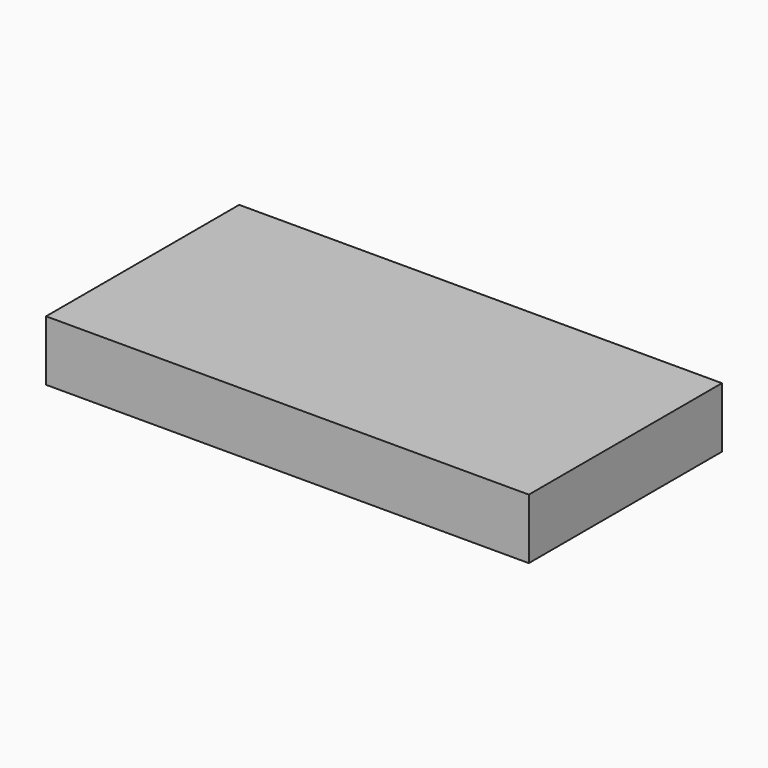
from build123d import *

# Parameters (mm, degrees)
SKETCH_W      = 40
SKETCH_H      = 20
EXTRUDE_DEPTH = 5


with BuildPart() as part:
    # Sketch → Extrude (new body)
    with BuildSketch(Plane.XY):
        with Locations((20, 10)):
            Rectangle(SKETCH_W, SKETCH_H)
    extrude(amount=EXTRUDE_DEPTH)


solid = part.part
